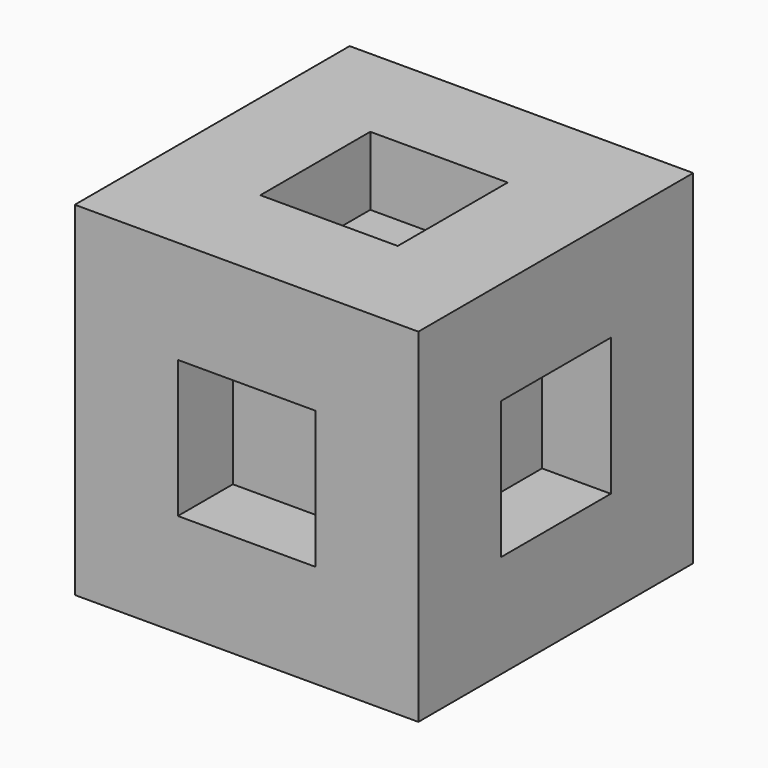
from build123d import *

# Parameters (mm, degrees)
F0_W     = 10
F0_H     = 10
F1_DEPTH = 10
F2_W     = 4
F2_H     = 4
F3_DEPTH = 2
F4_W     = 4
F4_H     = 4
F6_DEPTH = 2
F5_W     = 4
F5_H     = 4
F7_DEPTH = 2


with BuildPart() as f1:
    # F0 (on Top) → F1 (new body)
    with BuildSketch(Plane.XY):
        Rectangle(F0_W, F0_H)
    extrude(amount=F1_DEPTH)

    # F2 (on face) → F3 (cut)
    with BuildSketch(Plane.YZ.offset(5)):
        with Locations((0, 5)):
            Rectangle(F2_W, F2_H)
    extrude(amount=-F3_DEPTH, mode=Mode.SUBTRACT)

    # F4 (on face) → F6 (cut)
    with BuildSketch(Plane.XZ.offset(5)):
        with Locations((0, 5)):
            Rectangle(F4_W, F4_H)
    extrude(amount=-F6_DEPTH, mode=Mode.SUBTRACT)

    # F5 (on face) → F7 (cut)
    with BuildSketch(Plane.XY.offset(10)):
        Rectangle(F5_W, F5_H)
    extrude(amount=-F7_DEPTH, mode=Mode.SUBTRACT)


solid = f1.part
